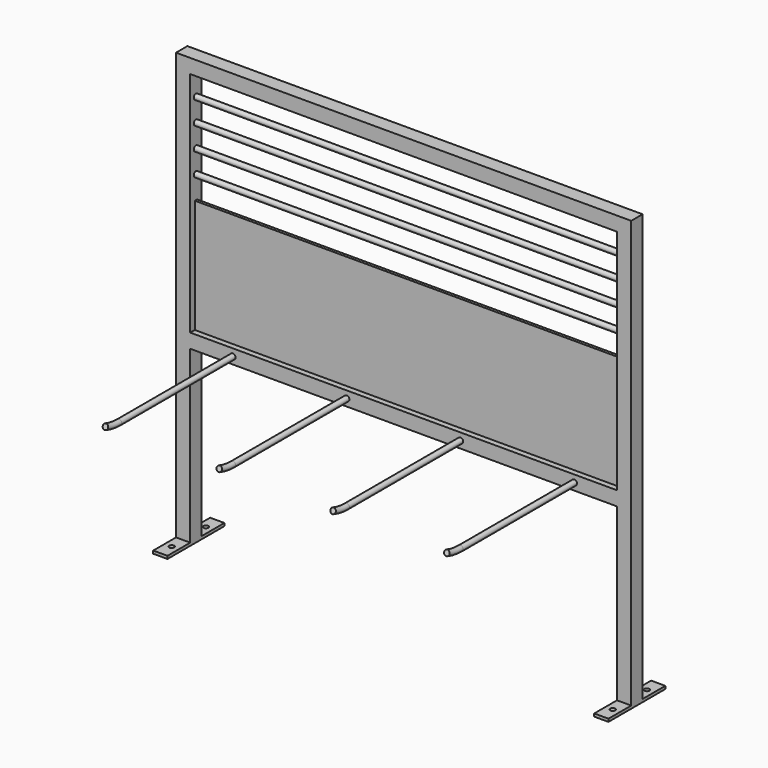
from build123d import *

# Parameters (mm, degrees)
F0_W          = 25
F0_H          = 25
F1_DEPTH      = 400
F1_DEPTH_BACK = 400
F2_R          = 4.75
F5_W          = 25
F5_H          = 25
F6_DEPTH      = 300
F7_W          = 25
F7_H          = 25
F7_H_2        = 50
F8_DEPTH      = 5
F9_W          = 25
F9_H          = 25
F10_DEPTH     = 425
F11_W         = 25
F11_H         = 25
F12_DEPTH     = 750
F13_W         = 5
F13_H         = 200
F13_R         = 4.75
F14_DEPTH     = 750
F16_D         = 8.8


with BuildPart() as f1:
    # F0 (on Right) → F1 (new body, two sides)
    with BuildSketch(Plane.YZ) as f1_sk:
        Rectangle(F0_W, F0_H)
    extrude(amount=F1_DEPTH)
    extrude(f1_sk.sketch, amount=-F1_DEPTH_BACK)

    # F4: sweep along a path in F3
    with BuildLine(Plane.YZ) as f4_path:
        Line((-12.5, 0), (-262.5, 0))
        ThreePointArc((-262.5, 0), (-277.7069063257, 1.2585620455), (-292.5, 5))
    # F2 (on face) → F4 (sweep)
    with BuildSketch(Plane.XZ.offset(12.5)):
        with Locations((-100, 0)):
            Circle(F2_R)
        with Locations((100, 0)):
            Circle(F2_R)
        with Locations((-300, 0)):
            Circle(F2_R)
        with Locations((300, 0)):
            Circle(F2_R)
    sweep(path=f4_path.line)

    # F5 (on face) → F6 (join)
    with BuildSketch(Plane(origin=(0, 0, -12.5), x_dir=(1, 0, 0), z_dir=(0, 0, -1))):
        with Locations((-387.5, 0)):
            Rectangle(F5_W, F5_H)
        with Locations((387.5, 0)):
            Rectangle(F5_W, F5_H)
    extrude(amount=F6_DEPTH)

    # F7 (on face) → F8 (join)
    with BuildSketch(Plane(origin=(0, 0, -312.5), x_dir=(1, 0, 0), z_dir=(0, 0, -1))):
        with Locations((-387.5, 0)):
            Rectangle(F7_W, F7_H)
        with Locations((-387.5, -37.5)):
            Rectangle(F7_W, F7_H_2)
        with Locations((-387.5, 37.5)):
            Rectangle(F7_W, F7_H_2)
        with Locations((387.5, 0)):
            Rectangle(F7_W, F7_H)
        with Locations((387.5, 37.5)):
            Rectangle(F7_W, F7_H_2)
        with Locations((387.5, -37.5)):
            Rectangle(F7_W, F7_H_2)
    extrude(amount=F8_DEPTH)

    # F9 (on face) → F10 (join)
    with BuildSketch(Plane.XY.offset(12.5)):
        with Locations((-387.5, 0)):
            Rectangle(F9_W, F9_H)
        with Locations((387.5, 0)):
            Rectangle(F9_W, F9_H)
    extrude(amount=F10_DEPTH)

    # F11 (on face) → F12 (join, through all)
    with BuildSketch(Plane.YZ.offset(-375)):
        with Locations((0, 425)):
            Rectangle(F11_W, F11_H)
    extrude(amount=F12_DEPTH)

    # F13 (on face) → F14 (join, through all)
    with BuildSketch(Plane.YZ.offset(-375)):
        with Locations((0, 112.5)):
            Rectangle(F13_W, F13_H)
        with Locations((0, 372.5)):
            Circle(F13_R)
        with Locations((0, 332.5)):
            Circle(F13_R)
        with Locations((0, 292.5)):
            Circle(F13_R)
        with Locations((0, 252.5)):
            Circle(F13_R)
    extrude(amount=F14_DEPTH)

    # F16 (through all)
    with Locations(Plane.XY.offset(-312.5)):
        with Locations((-387.5, -37.5), (-387.5, 37.5), (387.5, -37.5), (387.5, 37.5)):
            Hole(F16_D / 2)


solid = f1.part
